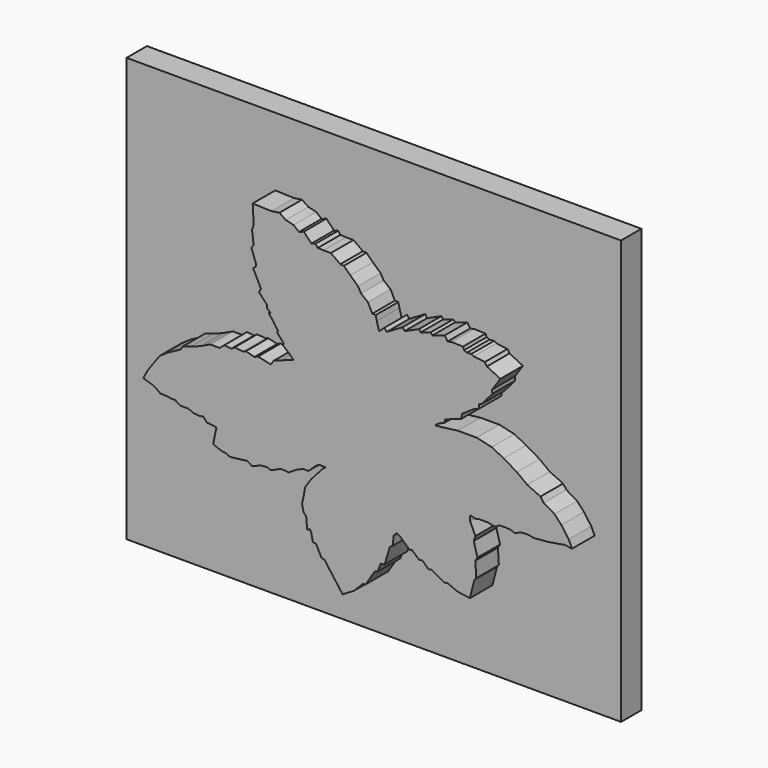
from build123d import *

# Parameters (mm, degrees)
BOX068_W                = 35
BOX068_H                = 1.8
BOX068_DEPTH            = 30
PAD001_DEPTH            = 3
BODY001_PLACEMENT_ANGLE = 90


with BuildPart() as logobase001:
    # Box068 → Box068 (new body)
    with BuildSketch(Plane(origin=(21.5, -44, 15.25), x_dir=(1, 0, 0), z_dir=(0, 0, 1))):
        with Locations((17.5, 0.9)):
            Rectangle(BOX068_W, BOX068_H)
    extrude(amount=BOX068_DEPTH)


with BuildPart() as logo003:
    # Sketch001 → Pad001 (new body)
    with BuildSketch(Plane.XY):
        Polygon((-15.066747, -2.987899), (-14.417461, -3.201938), (-14.138643, -3.358095), (-13.867326, -3.550643), (-13.410691, -3.571363), (-13.132099, -3.616994), (-12.816981, -3.623429), (-12.466181, -3.85302), (-11.870388, -3.85302), (-11.520385, -4.008358), (-11.138921, -4.05555), (-10.80982, -4.007881), (-10.571555, -4.299093), (-10.133842, -4.331365), (-9.89036, -4.3898), (-9.995555, -4.876968), (-10.089424, -5.363912), (-10.107024, -5.504714), (-9.778484, -5.639651), (-9.516561, -5.730218), (-9.249311, -5.762288), (-8.928614, -5.901257), (-8.543776, -5.863842), (-7.717882, -5.75845), (-7.372913, -5.972569), (-6.724874, -5.720376), (-6.270657, -5.694814), (-6.062229, -5.804927), (-5.350893, -5.48914), (-5.024015, -5.48914), (-4.801264, -5.531317), (-4.197354, -5.162479), (-3.751908, -4.972515), (-3.377141, -4.972515), (-2.818976, -4.454219), (-2.627606, -4.342587), (-2.151123, -4.357646), (-2.380419, -4.518009), (-3.185771, -5.42702), (-3.613178, -6.058241), (-3.711104, -6.645795), (-3.835143, -7.155008), (-3.758777, -7.508761), (-3.705962, -7.68135), (-3.53967, -7.852018), (-3.468499, -8.65617), (-3.272681, -8.566711), (-3.168228, -8.769092), (-3.070875, -9.320832), (-2.842071, -9.3355), (-2.45193, -10.098182), (-2.249525, -10.130449), (-0.96042, -11.875302), (-0.153326, -11.388908), (0.461347, -10.768889), (0.669802, -10.72613), (1.317242, -9.709977), (1.518256, -9.650808), (1.740221, -9.089367), (2.020942, -9.043669), (2.393061, -7.803274), (2.588394, -7.698711), (2.654196, -7.039452), (2.869633, -6.817487), (3.091598, -6.928469), (3.796664, -7.57478), (3.933761, -7.502968), (4.462561, -7.973012), (4.684525, -7.920785), (5.115399, -8.34513), (5.324308, -8.286375), (6.23668, -8.795643), (6.503619, -8.766309), (7.148016, -9.05537), (8.048827, -9.186133), (8.36847, -7.936621), (8.499233, -7.791329), (8.434769, -6.722055), (8.586207, -6.479883), (8.322964, -5.531781), (8.439835, -5.190909), (8.074257, -4.393068), (8.042361, -4.177775), (8.090203, -3.994378), (8.410305, -4.111031), (8.720134, -4.050195), (9.318169, -4.050195), (9.829643, -4.158874), (10.132648, -3.967503), (10.517489, -3.962302), (10.88308, -3.975359), (11.224485, -4.094309), (11.686072, -3.910075), (12.103889, -3.883962), (12.600047, -3.962302), (13.579306, -3.877433), (14.388827, -3.746865), (14.754416, -3.681581), (15.276689, -3.753394), (15.04319, -3.241373), (14.520919, -2.516721), (14.037817, -1.994449), (13.280153, -1.546255), (13.043842, -1.231174), (12.107354, -0.797939), (11.380431, -0.250878), (10.439567, 0.304889), (9.595256, 0.727998), (8.536237, 0.97306), (7.198999, 0.97306), (5.779317, 0.795578), (5.601857, 0.795578), (5.831776, 0.981815), (6.254031, 1.158201), (6.302136, 1.382691), (7.179873, 1.706855), (7.446816, 1.794377), (7.490577, 2.126962), (8.300576, 2.668386), (8.685751, 2.818538), (8.685751, 3.125373), (8.89508, 3.18684), (9.634921, 4.066021), (9.626381, 4.327431), (10.206841, 5.183136), (9.255181, 5.644445), (9.110202, 5.875968), (8.321324, 5.973361), (8.154661, 6.066253), (7.828613, 6.044872), (7.634715, 6.130877), (7.563913, 6.332674), (6.748318, 6.354958), (6.468188, 6.295259), (6.270422, 6.610614), (5.404532, 6.332674), (5.270907, 6.471644), (4.569418, 6.247245), (4.441608, 6.406517), (3.419502, 5.945882), (3.291921, 6.153201), (2.15964, 5.491375), (2.000163, 5.698694), (1.618501, 5.348278), (1.459844, 5.949736), (1.381651, 6.286506), (1.14534, 6.299634), (0.824344, 6.914785), (0.348522, 7.295443), (0.126706, 7.681261), (-0.415308, 8.181635), (-0.872658, 8.623701), (-1.120738, 8.643287), (-1.793164, 9.119861), (-2.314879, 9.121219), (-2.713213, 9.138457), (-2.884254, 9.341568), (-3.167788, 9.264536), (-3.707386, 9.827964), (-4.049155, 9.7003), (-4.429878, 10.011006), (-4.979099, 10.142511), (-5.430383, 10.448871), (-5.989475, 10.365602), (-7.326053, 10.410839), (-7.252544, 9.132535), (-7.368778, 8.769302), (-7.261404, 7.837619), (-7.411118, 7.604196), (-7.092165, 6.743021), (-7.100138, 6.559623), (-7.29151, 6.384199), (-6.741315, 5.299757), (-6.87495, 5.027319), (-6.315858, 4.420645), (-6.303963, 4.194629), (-6.054155, 4.0043), (-6.185007, 3.956717), (-5.542647, 3.076445), (-5.578333, 2.909907), (-5.126302, 2.410293), (-5.185779, 2.267546), (-4.733747, 1.898783), (-4.424462, 1.589498), (-5.31663, 1.292109), (-5.840036, 1.089884), (-6.04226, 0.792495), (-6.946324, 0.994719), (-7.196131, 0.887659), (-7.814701, 1.042302), (-8.02502, 0.969153), (-8.602671, 1.030419), (-8.834605, 0.872878), (-9.333486, 0.929767), (-9.661695, 0.649695), (-10.324935, 0.649695), (-11.010686, 0.32425), (-11.728333, 0.053139), (-12.297134, -0.13161), (-12.421175, -0.347049), (-13.295985, -0.817096), (-13.922715, -1.241445), (-14.170795, -1.59398), (-14.53862, -2.09216), (-14.783051, -2.457701), align=None)
    extrude(amount=PAD001_DEPTH)


with BuildPart() as logo003_1:
    # Body001 placement: moved
    add(logo003.part.moved(Location((39.35, -43, 30))).rotate(Axis((39.35, -43, 30), (1, 0, 0)), BODY001_PLACEMENT_ANGLE))

    # Fusion040: union logoBase001
    add(logobase001.part)


solid = logo003_1.part
